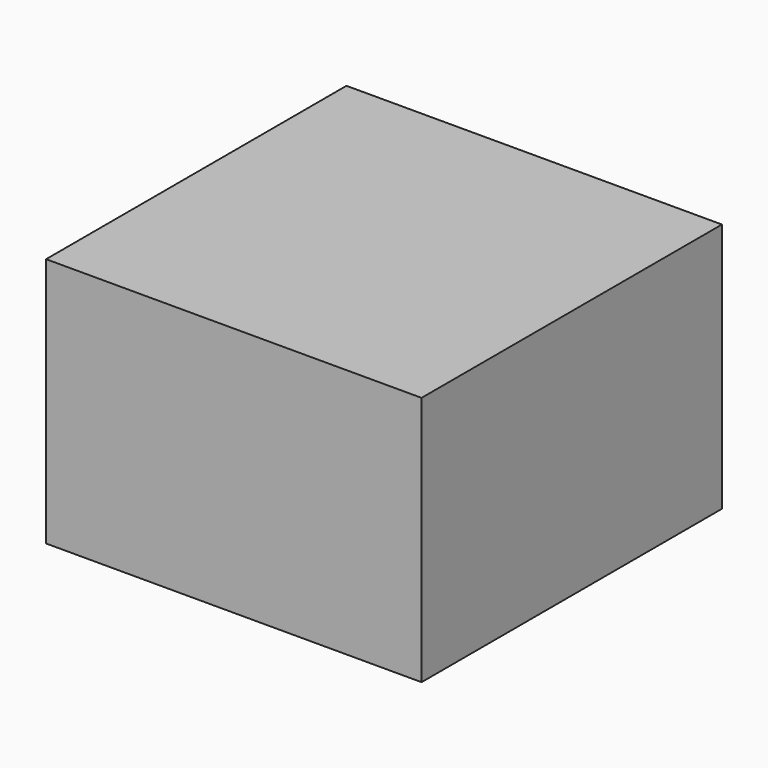
from build123d import *

# Parameters (mm, degrees)
SKETCH_W      = 75
SKETCH_H      = 75
EXTRUDE_DEPTH = 50


with BuildPart() as part:
    # Sketch → Extrude (new body)
    with BuildSketch(Plane.XY):
        Rectangle(SKETCH_W, SKETCH_H)
    extrude(amount=EXTRUDE_DEPTH)


solid = part.part
